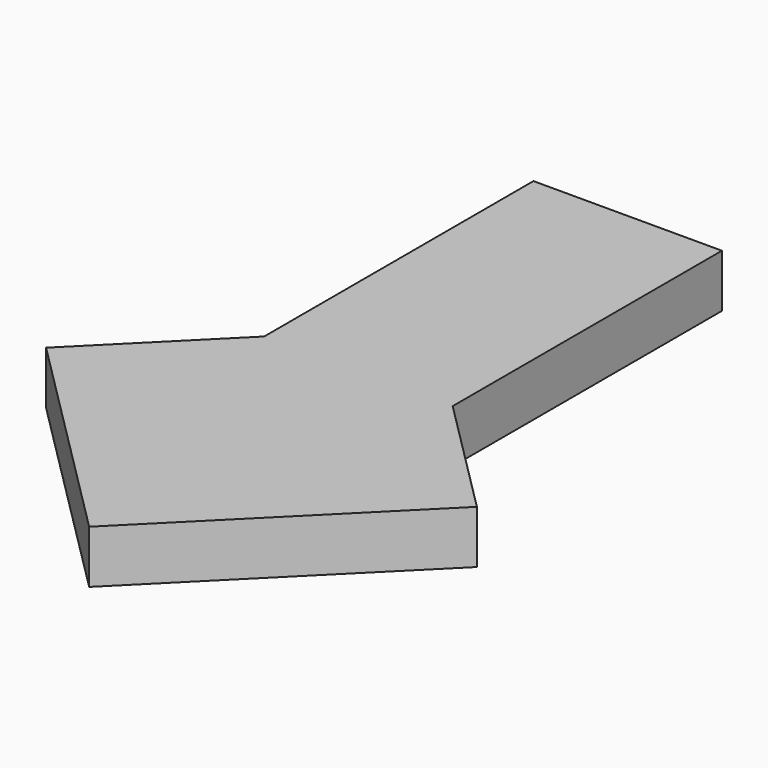
from build123d import *

# Parameters (mm, degrees)
F1_DEPTH = 5


with BuildPart() as f1:
    # F0 (on Top) → F1 (new body)
    with BuildSketch(Plane.XY):
        Polygon((0, 22.86), (-17.78, 22.86), (-17.78, 0), (-8.89, 0), (0, 0), align=None)
        Polygon((0, -8.89), (0, 0), (-8.89, 0), align=None)
        Polygon((-8.89, 0), (-17.78, 0), (-17.78, -8.89), align=None)
        Polygon((0, -8.89), (-8.89, 0), (-17.78, -8.89), (-29.21, -20.32), (-8.89, -40.64), (11.43, -20.32), align=None)
    extrude(amount=F1_DEPTH)


solid = f1.part
